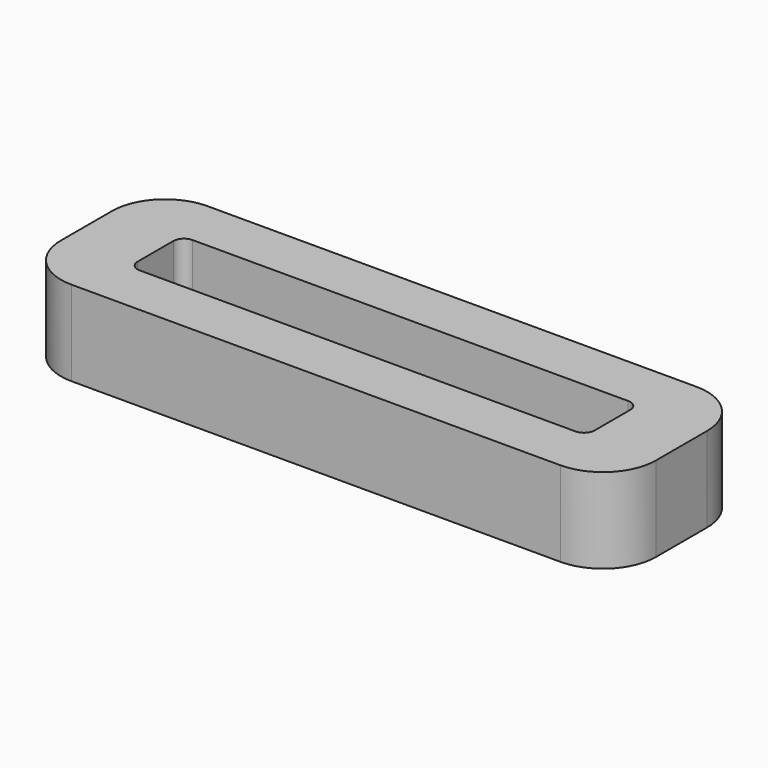
from build123d import *

# Parameters (mm, degrees)
F1_DEPTH = 8


with BuildPart() as f1:
    # F0 (on Top) → F1 (new body)
    with BuildSketch(Plane.XY):
        with BuildLine():
            Line((30.910678, 8.910768), (-15.089322, 8.910768))
            ThreePointArc((-15.089322, 8.910768), (-18.624856, 7.446301), (-20.089322, 3.910768))
            Line((-20.089322, 3.910768), (-20.089322, 0.910768))
            Line((-20.089322, 0.910768), (-20.089322, -2.089232))
            ThreePointArc((-20.089322, -2.089232), (-18.624856, -5.624766), (-15.089322, -7.089232))
            Line((-15.089322, -7.089232), (30.910678, -7.089232))
            ThreePointArc((30.910678, -7.089232), (34.446212, -5.624766), (35.910678, -2.089232))
            Line((35.910678, -2.089232), (35.910678, 0.910768))
            Line((35.910678, 0.910768), (35.910678, 3.910768))
            ThreePointArc((35.910678, 3.910768), (34.446212, 7.446301), (30.910678, 8.910768))
        make_face()
        with BuildLine():
            Line((-13.589322, -1.189232), (-13.589322, 0.910768))
            Line((-13.589322, 0.910768), (-13.589322, 3.010768))
            ThreePointArc((-13.589322, 3.010768), (-13.296429, 3.717874), (-12.589322, 4.010768))
            Line((-12.589322, 4.010768), (28.410678, 4.010768))
            ThreePointArc((28.410678, 4.010768), (29.117785, 3.717874), (29.410678, 3.010768))
            Line((29.410678, 3.010768), (29.410678, 0.910768))
            Line((29.410678, 0.910768), (29.410678, -1.189232))
            ThreePointArc((29.410678, -1.189232), (29.117785, -1.896339), (28.410678, -2.189232))
            Line((28.410678, -2.189232), (-12.589322, -2.189232))
            ThreePointArc((-12.589322, -2.189232), (-13.296429, -1.896339), (-13.589322, -1.189232))
        make_face(mode=Mode.SUBTRACT)
    extrude(amount=F1_DEPTH)


solid = f1.part
